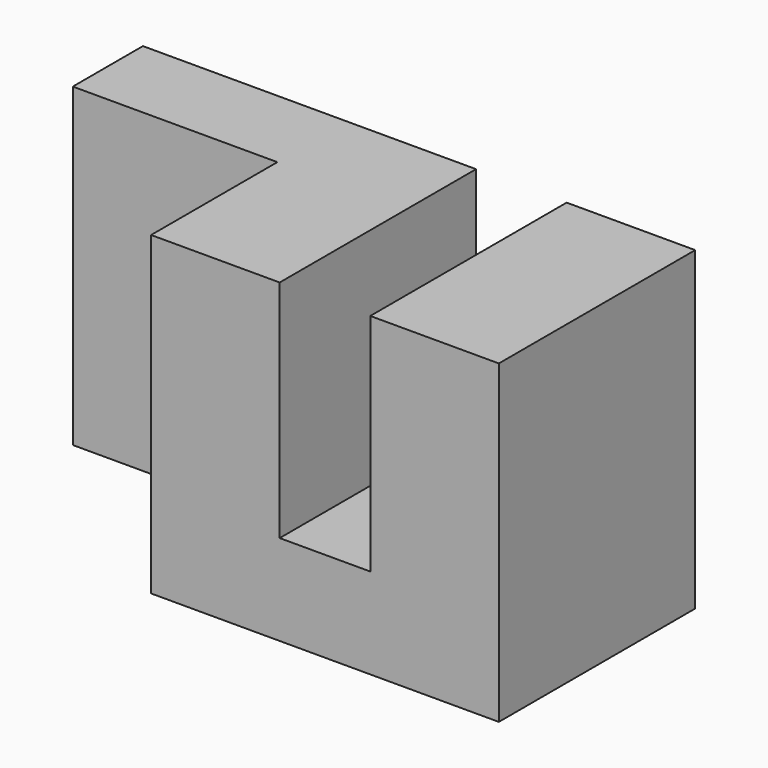
from build123d import *

# Parameters (mm, degrees)
PAD001_DEPTH = 8.4
SKETCH001_W  = 7
SKETCH001_H  = 10.8
PAD_DEPTH    = 3


with BuildPart() as part:
    # Sketch → Pad001 (new body)
    with BuildSketch(Plane.XZ):
        Polygon((0, 0), (0, 10.8), (4.4, 10.8), (4.4, 3.1), (7.5, 3.1), (7.5, 10.8), (11.9, 10.8), (11.9, 0), align=None)
    extrude(amount=PAD001_DEPTH)

    # Sketch001 → Pad (join)
    with BuildSketch(Plane.XZ):
        with Locations((-3.5, 5.4)):
            Rectangle(SKETCH001_W, SKETCH001_H)
    extrude(amount=PAD_DEPTH)


solid = part.part
